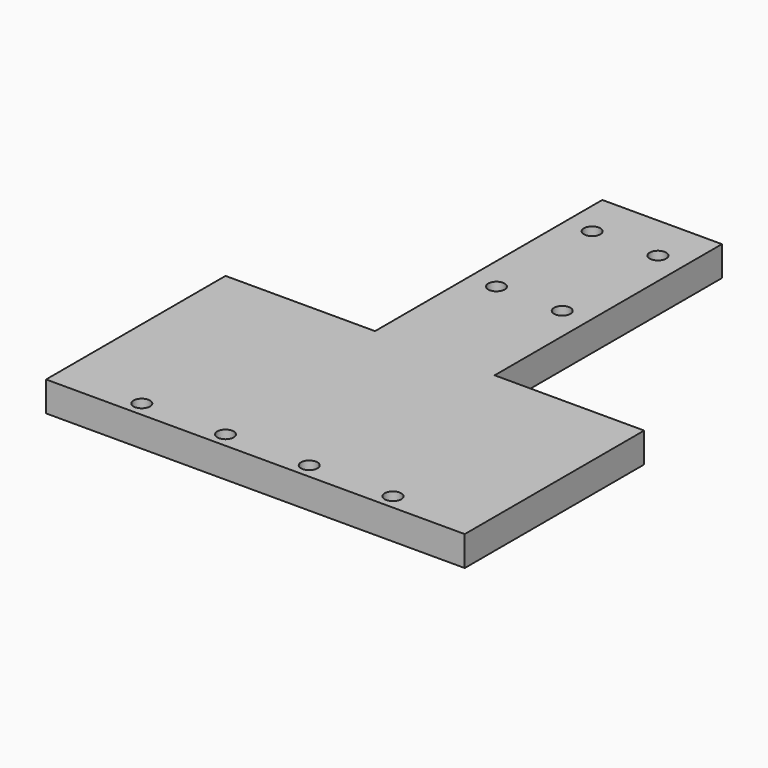
from build123d import *

# Parameters (mm, degrees)
SKETCH_W               = 140
SKETCH_H               = 75
PAD_DEPTH              = 10
SKETCH001_W            = 40
SKETCH001_H            = 10
PAD001_DEPTH           = 95
SKETCH002_R            = 2.75
HOLE_DEPTH             = 10.001
LINEARPATTERN_COUNT    = 4
LINEARPATTERN_PITCH    = 28
SKETCH003_R            = 2.75
HOLE001_DEPTH          = 10.001
LINEARPATTERN001_COUNT = 2
LINEARPATTERN001_PITCH = 22
LINEARPATTERN002_COUNT = 2
LINEARPATTERN002_PITCH = 40
SKETCH004_R            = 2.75
HOLE002_DEPTH          = 10.001


with BuildPart() as part:
    # Sketch → Pad (new body)
    with BuildSketch(Plane.XY):
        with Locations((70, 37.5)):
            Rectangle(SKETCH_W, SKETCH_H)
    extrude(amount=PAD_DEPTH)

    # Sketch001 (on Face3 of Pad) → Pad001 (join)
    with BuildSketch(Plane(origin=(0, 75, 0), x_dir=(-1, 0, 0), z_dir=(0, 1, 0))):
        with Locations((-70, 5)):
            Rectangle(SKETCH001_W, SKETCH001_H)
    extrude(amount=PAD001_DEPTH)

    # Sketch002 (on Face5 of Pad001) → Hole (cut, through all)
    with BuildSketch(Plane.XY.offset(10)):
        with Locations((28, 5)):
            Circle(SKETCH002_R)
    hole = extrude(amount=-HOLE_DEPTH, mode=Mode.SUBTRACT)

    # LinearPattern: Hole ×4
    with Locations(*[(i * LINEARPATTERN_PITCH, 0, 0) for i in range(1, LINEARPATTERN_COUNT)]):
        add(hole, mode=Mode.SUBTRACT)

    # Sketch003 (on Face13 of LinearPattern) → Hole001 (cut, through all)
    with BuildSketch(Plane.XY.offset(10)):
        with Locations((59, 114.5)):
            Circle(SKETCH003_R)
    hole001 = extrude(amount=-HOLE001_DEPTH, mode=Mode.SUBTRACT)

    # LinearPattern001: Hole001 ×2
    with Locations(*[(i * LINEARPATTERN001_PITCH, 0, 0) for i in range(1, LINEARPATTERN001_COUNT)]):
        add(hole001, mode=Mode.SUBTRACT)

    # LinearPattern002: Hole001 ×2
    with Locations(*[(0, i * LINEARPATTERN002_PITCH, 0) for i in range(1, LINEARPATTERN002_COUNT)]):
        add(hole001, mode=Mode.SUBTRACT)

    # Sketch004 (on Face13 of LinearPattern002) → Hole002 (cut, through all)
    with BuildSketch(Plane.XY.offset(10)):
        with Locations((81, 154.5)):
            Circle(SKETCH004_R)
    extrude(amount=-HOLE002_DEPTH, mode=Mode.SUBTRACT)


solid = part.part
